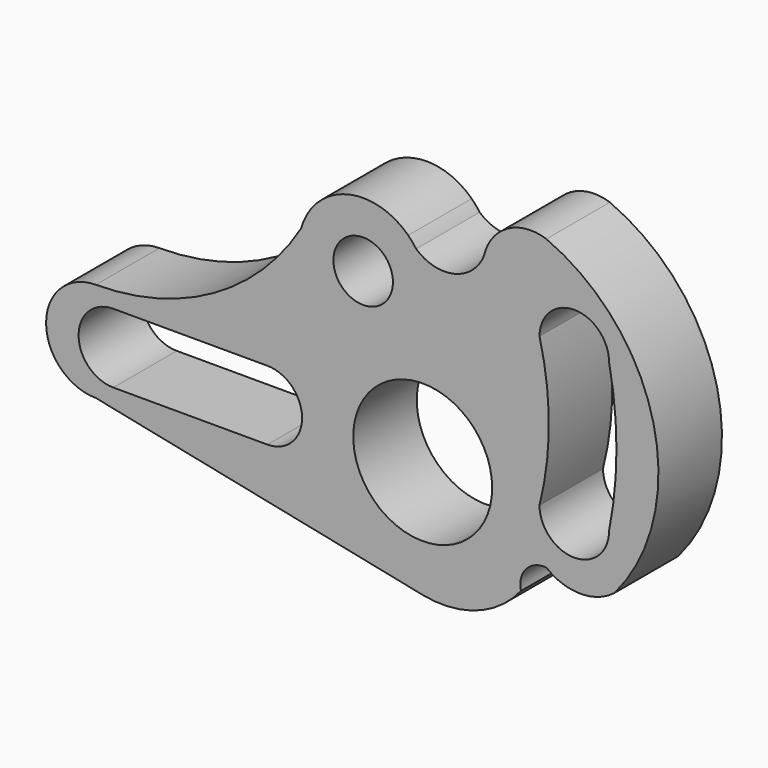
from build123d import *

# Parameters (mm, degrees)
F0_R     = 9.525
F0_R_2   = 22.225
F1_DEPTH = 25.4


with BuildPart() as f1:
    # F0 (on Front) → F1 (new body)
    with BuildSketch(Plane.XZ):
        with BuildLine():
            ThreePointArc((-2.105307, 59.405652), (-3.487416, 60.815705), (-4.651927, 62.410191))
            ThreePointArc((-4.651927, 62.410191), (-24.400333, 67.556893), (-38.916722, 53.212466))
            ThreePointArc((-38.916722, 53.212466), (-21.870189, 27.181103), (1.5875, 47.625))
            ThreePointArc((1.5875, 47.625), (0.64267, 53.797937), (-2.105307, 59.405652))
        make_face()
        with Locations((-19.05, 47.625)):
            Circle(F0_R, mode=Mode.SUBTRACT)
        with BuildLine():
            ThreePointArc((-2.105307, 59.405652), (-3.306777, 60.968813), (-4.651927, 62.410191))
            ThreePointArc((-4.651927, 62.410191), (-3.487416, 60.815705), (-2.105307, 59.405652))
        make_face()
        with BuildLine():
            ThreePointArc((1.5875, 47.625), (-21.870189, 27.181103), (-38.916722, 53.212466))
            ThreePointArc((-38.916722, 53.212466), (-66.824649, 25.943069), (-104.552658, 15.989695))
            Line((-104.552658, 15.989695), (-44.147662, 15.989695))
            ThreePointArc((-44.147662, 15.989695), (-28.194116, 0.036148), (-44.147662, -15.917398))
            Line((-44.147662, -15.917398), (-104.552658, -15.917398))
            Line((-104.552658, -15.917398), (0, -37.385087))
            ThreePointArc((0, -37.385087), (17.312965, -36.134171), (31.426091, -26.028568))
            ThreePointArc((31.426091, -26.028568), (33.107344, -19.309625), (39.568502, -16.814781))
            ThreePointArc((39.568502, -16.814781), (50.496476, -20.636413), (61.424449, -16.814781))
            ThreePointArc((61.424449, -16.814781), (73.851702, 34.982838), (39.568502, 75.751603))
            ThreePointArc((39.568502, 75.751603), (27.12171, 74.62131), (19.641014, 64.609349))
            ThreePointArc((19.641014, 64.609349), (10.119071, 56.360745), (-2.105307, 59.405652))
            ThreePointArc((-2.105307, 59.405652), (0.64267, 53.797937), (1.5875, 47.625))
        make_face()
        Circle(F0_R_2, mode=Mode.SUBTRACT)
        with BuildLine():
            ThreePointArc((59.619383, 0), (48.494204, -11.103584), (37.369025, 0))
            ThreePointArc((37.369025, 0), (40.35211, 23.8125), (37.369025, 47.625))
            ThreePointArc((37.369025, 47.625), (48.494204, 58.728584), (59.619383, 47.625))
            ThreePointArc((59.619383, 47.625), (61.994299, 23.8125), (59.619383, 0))
        make_face(mode=Mode.SUBTRACT)
        with BuildLine():
            Line((-44.147662, 15.989695), (-104.552658, 15.989695))
            ThreePointArc((-104.552658, 15.989695), (-120.506205, 0.036148), (-104.552658, -15.917398))
            Line((-104.552658, -15.917398), (-44.147662, -15.917398))
            ThreePointArc((-44.147662, -15.917398), (-28.194116, 0.036148), (-44.147662, 15.989695))
        make_face()
        with BuildLine():
            ThreePointArc((-98.998547, -11.153035), (-110.106096, -0.053238), (-98.998547, 11.046559))
            Line((-98.998547, 11.046559), (-49.705138, 11.012146))
            ThreePointArc((-49.705138, 11.012146), (-38.597589, -0.087651), (-49.705138, -11.187449))
            Line((-49.705138, -11.187449), (-98.998547, -11.153035))
        make_face(mode=Mode.SUBTRACT)
    extrude(amount=F1_DEPTH)


solid = f1.part
